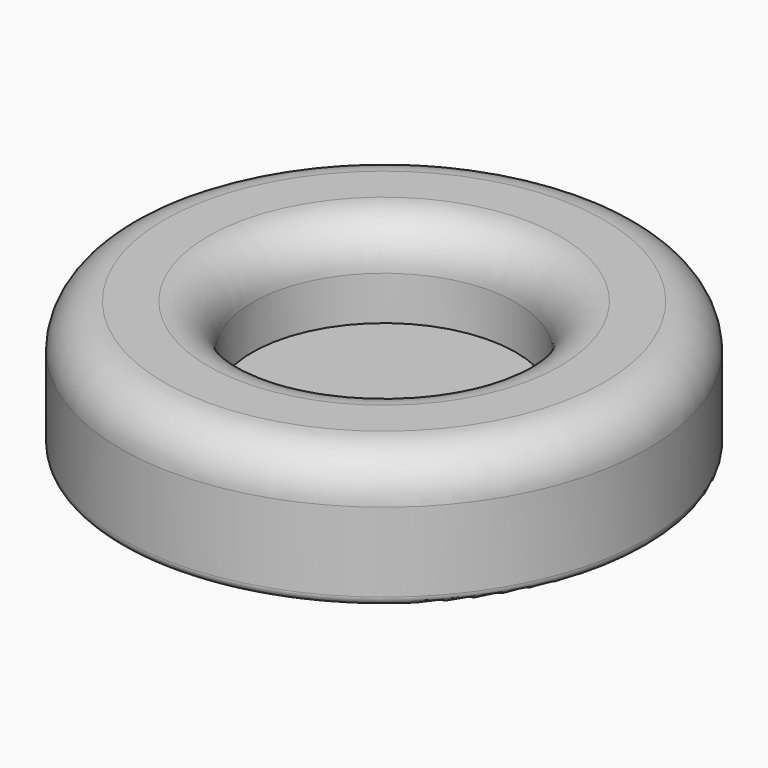
from build123d import *

# Parameters (mm, degrees)
F2_R = 1


with BuildPart() as f1:
    # F0 (on Front) → F1 (revolve)
    with BuildSketch(Plane.XZ):
        with BuildLine():
            Line((0, 5), (0, 0))
            Line((0, 0), (30, 0))
            Line((30, 0), (30, 10))
            ThreePointArc((30, 10), (28.535534, 13.535534), (25, 15))
            Line((25, 15), (20, 15))
            ThreePointArc((20, 15), (16.464466, 13.535534), (15, 10))
            Line((15, 10), (15, 5))
            Line((15, 5), (0, 5))
        make_face()
    revolve(axis=Axis((0, 0, 2.5), (0, 0, -1)))

    # F2
    f2_edges = [f1.edges().sort_by_distance(p)[0] for p in [
        (-30, 0, 0),
    ]]
    fillet(f2_edges, radius=F2_R)


solid = f1.part
